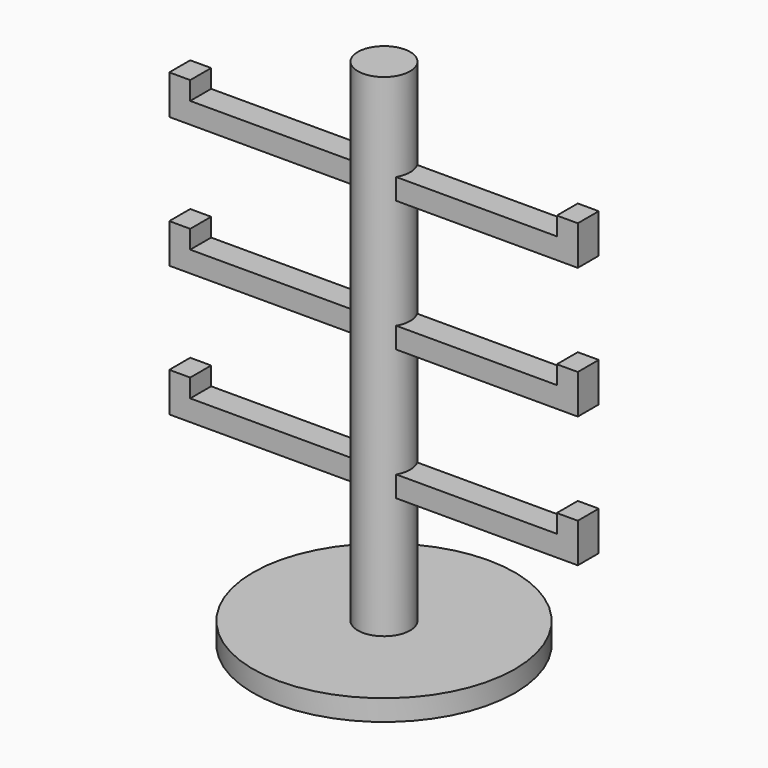
from build123d import *

# Parameters (mm, degrees)
F0_R     = 63.5
F1_DEPTH = 10.16
F2_R     = 12.7
F3_DEPTH = 248.92
F5_DEPTH = 6.35


with BuildPart() as f1:
    # F0 (on Top) → F1 (new body)
    with BuildSketch(Plane.XY):
        Circle(F0_R)
    extrude(amount=F1_DEPTH)

    # F2 (on Top) → F3 (join)
    with BuildSketch(Plane.XY):
        Circle(F2_R)
    extrude(amount=F3_DEPTH)

    # F4 (on Front) → F5 (join, symmetric)
    with BuildSketch(Plane.XZ):
        Polygon((-88.9, 205.788166), (-88.9, 195.628166), (0, 195.628166), (88.9, 195.628166), (88.9, 205.788166), align=None)
        Polygon((-99.06, 195.628166), (-88.9, 195.628166), (-88.9, 205.788166), (-88.9, 214.678166), (-99.06, 214.678166), align=None)
        Polygon((88.9, 78.788166), (0, 78.788166), (0, 73.708166), (0, 68.628166), (88.9, 68.628166), align=None)
        Polygon((0, 73.708166), (0, 78.788166), (-88.9, 78.788166), (-88.9, 68.628166), (0, 68.628166), align=None)
        Polygon((88.9, 142.288166), (0, 142.288166), (0, 137.208166), (0, 132.128166), (88.9, 132.128166), align=None)
        Polygon((0, 137.208166), (0, 142.288166), (-88.9, 142.288166), (-88.9, 132.128166), (0, 132.128166), align=None)
        Polygon((88.9, 205.788166), (88.9, 195.628166), (99.06, 195.628166), (99.06, 214.678166), (88.9, 214.678166), align=None)
        Polygon((-88.9, 132.128166), (-88.9, 142.288166), (-88.9, 151.178166), (-99.06, 151.178166), (-99.06, 132.128166), align=None)
        Polygon((88.9, 151.178166), (88.9, 142.288166), (88.9, 132.128166), (99.06, 132.128166), (99.06, 151.178166), align=None)
        Polygon((-88.9, 68.628166), (-88.9, 78.788166), (-88.9, 87.678166), (-99.06, 87.678166), (-99.06, 68.628166), align=None)
        Polygon((88.9, 87.678166), (88.9, 78.788166), (88.9, 68.628166), (99.06, 68.628166), (99.06, 87.678166), align=None)
    extrude(amount=F5_DEPTH, both=True)


solid = f1.part
